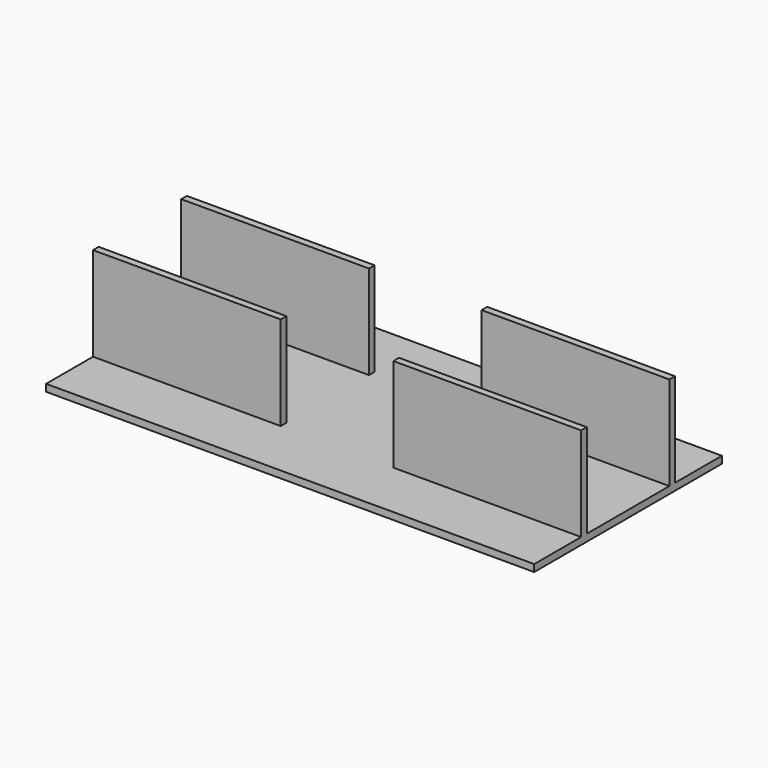
from build123d import *

# Parameters (mm, degrees)
SKETCH_W     = 208
SKETCH_H     = 100
PAD_DEPTH    = 3
SKETCH001_W  = 80
SKETCH001_H  = 3
PAD001_DEPTH = 40


with BuildPart() as part:
    # Sketch → Pad (new body)
    with BuildSketch(Plane.XY):
        with Locations((-104, 50)):
            Rectangle(SKETCH_W, SKETCH_H)
    extrude(amount=PAD_DEPTH)

    # Sketch001 → Pad001 (new body)
    with BuildSketch(Plane.XY.offset(3)):
        with Locations((-168, 73.5)):
            Rectangle(SKETCH001_W, SKETCH001_H)
        with Locations((-40, 73.5)):
            Rectangle(SKETCH001_W, SKETCH001_H)
        with Locations((-168, 26.5)):
            Rectangle(SKETCH001_W, SKETCH001_H)
        with Locations((-40, 26.5)):
            Rectangle(SKETCH001_W, SKETCH001_H)
    extrude(amount=PAD001_DEPTH)


solid = part.part
